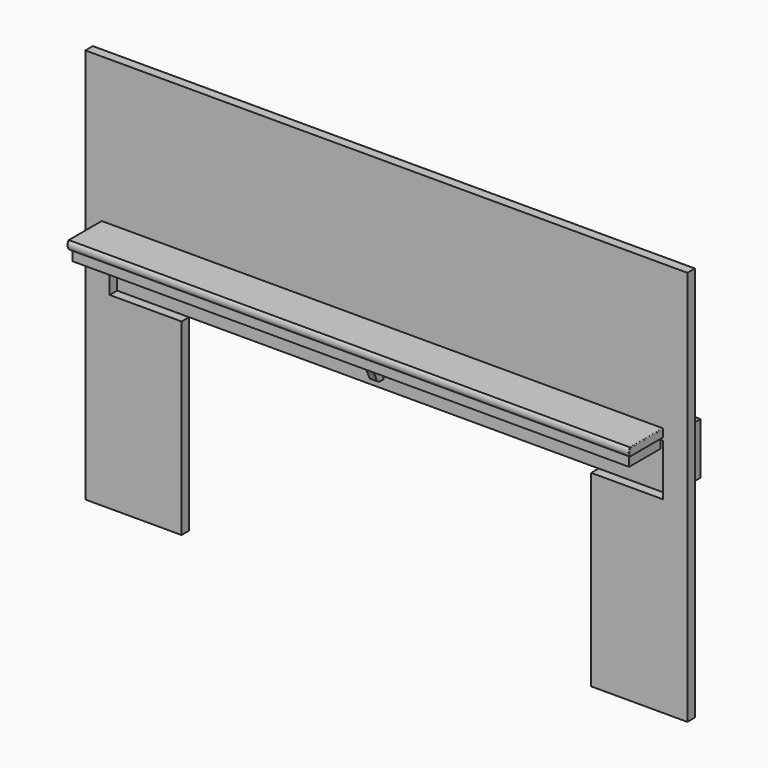
from build123d import *

# Parameters (mm, degrees)
F0_W      = 1478
F0_H      = 138
F1_DEPTH  = 100
F3_DEPTH  = 750.5
F4_W      = 9
F4_H      = 4
F5_DEPTH  = 12
F6_W      = 9
F6_H      = 4
F7_DEPTH  = 12
F8_R      = 2
F11_DEPTH = 28
F13_DEPTH = 10
F15_DEPTH = 25
F16_W     = 17
F16_H     = 28
F17_DEPTH = 9
F18_R     = 12


with BuildPart() as f1:
    # F0 (on Front) → F1 (new body)
    with BuildSketch(Plane.XZ):
        with Locations((0, 69)):
            Rectangle(F0_W, F0_H)
    extrude(amount=-F1_DEPTH)


with BuildPart() as f3:
    # F2 (on Right) → F3 (new body, symmetric)
    with BuildSketch(Plane.YZ):
        with BuildLine():
            Line((-38.789494, 158.130697), (-38.789494, 176.130697))
            Line((-38.789494, 176.130697), (-148.789494, 176.130697))
            ThreePointArc((-148.789494, 176.130697), (-152.789494, 165.130697), (-148.789494, 154.130697))
            Line((-148.789494, 154.130697), (-47.789494, 154.130697))
            Line((-47.789494, 154.130697), (-47.789494, 158.130697))
            Line((-47.789494, 158.130697), (-38.789494, 158.130697))
        make_face()
    extrude(amount=F3_DEPTH, both=True)

    # F4 (on face) → F5 (join)
    with BuildSketch(Plane.YZ.offset(750.5)):
        with Locations((-43.289494, 156.130697)):
            Rectangle(F4_W, F4_H)
    extrude(amount=-F5_DEPTH)

    # F6 (on face) → F7 (join)
    with BuildSketch(Plane(origin=(-750.5, 0, 0), x_dir=(0, -1, 0), z_dir=(-1, 0, 0))):
        with Locations((43.289494, 156.130697)):
            Rectangle(F6_W, F6_H)
    extrude(amount=-F7_DEPTH)

    # F8
    f8_edges = [f3.edges().sort_by_distance(p)[0] for p in [
        (750.5, -93.789494, 154.130697),
        (750.5, -152.789494, 165.130697),
        (750.5, -93.789494, 176.130697),
        (-750.5, -152.789494, 165.130697),
        (-750.5, -93.789494, 154.130697),
        (-750.5, -93.789494, 176.130697),
    ]]
    fillet(f8_edges, radius=F8_R)

    # F10 (on face) → F11 (join)
    with BuildSketch(Plane(origin=(0, 0, 154.130697), x_dir=(1, 0, 0), z_dir=(0, 0, -1))):
        Polygon((721.5, 38.789494), (743.5, 38.789494), (743.5, 143.789494), (-743.5, 143.789494), (-743.5, 38.789494), (-721.5, 38.789494), (-721.5, 121.789494), (721.5, 121.789494), align=None)
    extrude(amount=F11_DEPTH)

    # F16 (on face) → F17 (cut, through all)
    with BuildSketch(Plane(origin=(0, -38.789494, 0), x_dir=(-1, 0, 0), z_dir=(0, 1, 0))):
        with Locations((-730, 140.130697)):
            Rectangle(F16_W, F16_H)
        with Locations((730, 140.130697)):
            Rectangle(F16_W, F16_H)
    extrude(amount=-F17_DEPTH, mode=Mode.SUBTRACT)


with BuildPart() as f13:
    # F12 (on Right) → F13 (new body, symmetric)
    with BuildSketch(Plane.YZ):
        with BuildLine():
            Line((-47.789494, 154.130697), (-120.789494, 154.130697))
            Line((-120.789494, 154.130697), (-120.789494, 119.130697))
            ThreePointArc((-120.789494, 119.130697), (-87.14592, 92.455457), (-67.789494, 54.130697))
            Line((-67.789494, 54.130697), (-47.789494, 54.130697))
            Line((-47.789494, 54.130697), (-47.789494, 154.130697))
        make_face()
    extrude(amount=F13_DEPTH, both=True)

    # F18
    f18_edges = [f13.edges().sort_by_distance(p)[0] for p in [
        (0, -120.789494, 119.130697),
        (0, -67.789494, 54.130697),
    ]]
    fillet(f18_edges, radius=F18_R)


with BuildPart() as f15:
    # F14 (on Front) → F15 (new body)
    with BuildSketch(Plane.XZ):
        Polygon((-547, -502.17247), (-547, 0), (-739, 0), (-739, 138), (739, 138), (739, 0), (547, 0), (547, -502.17247), (804, -502.17247), (804, 553.893745), (-804, 553.893745), (-804, -502.17247), align=None)
    extrude(amount=F15_DEPTH)


solid = Compound([f1.part, f3.part, f13.part, f15.part])
